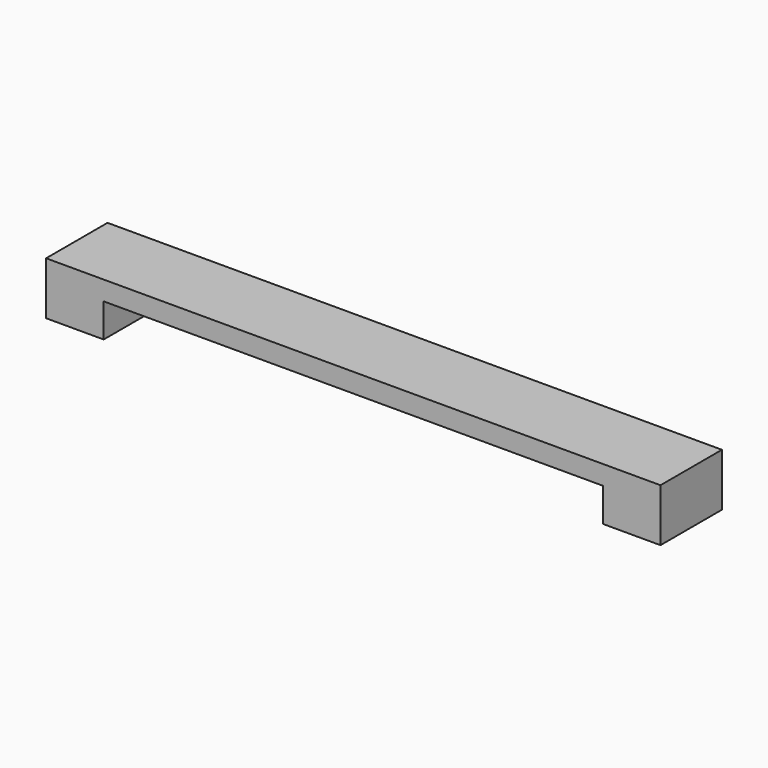
from build123d import *

# Parameters (mm, degrees)
BOX517_W     = 128
BOX517_H     = 16
BOX517_DEPTH = 4
BOX518_W     = 12
BOX518_H     = 16
BOX518_DEPTH = 11
BOX519_W     = 12
BOX519_H     = 16
BOX519_DEPTH = 11


with BuildPart() as box517:
    # Box517 → Box517 (new body)
    with BuildSketch(Plane(origin=(-98, -27, 47), x_dir=(1, 0, 0), z_dir=(0, 0, 1))):
        with Locations((64, 8)):
            Rectangle(BOX517_W, BOX517_H)
    extrude(amount=BOX517_DEPTH)


with BuildPart() as box518:
    # Box518 → Box518 (new body)
    with BuildSketch(Plane(origin=(-98, -27, 40), x_dir=(1, 0, 0), z_dir=(0, 0, 1))):
        with Locations((6, 8)):
            Rectangle(BOX518_W, BOX518_H)
    extrude(amount=BOX518_DEPTH)


with BuildPart() as fusion400:
    # Box519 → Box519 (new body)
    with BuildSketch(Plane(origin=(18, -27, 40), x_dir=(1, 0, 0), z_dir=(0, 0, 1))):
        with Locations((6, 8)):
            Rectangle(BOX519_W, BOX519_H)
    extrude(amount=BOX519_DEPTH)

    # Fusion400: union Box517, Box518
    add(box517.part)
    add(box518.part)


with BuildPart() as fusion400_1:
    # Fusion400 placement: moved
    add(fusion400.part.moved(Location((0, -29, 0))))


solid = fusion400_1.part
